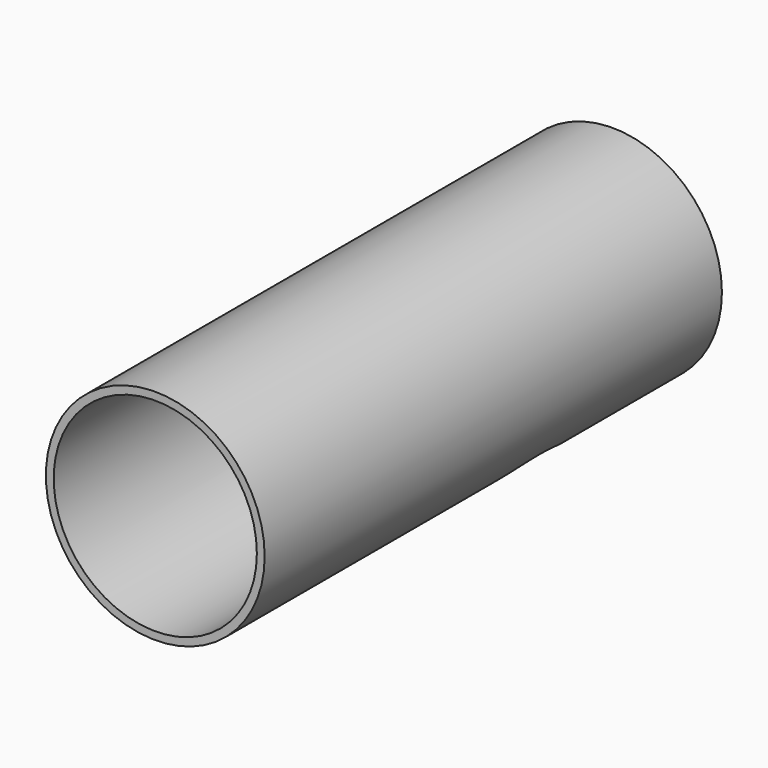
from build123d import *

# Parameters (mm, degrees)
F0_R     = 35.56
F1_DEPTH = 185.777068
F2_T     = -2.54
F3_R     = 26.32941
F4_DEPTH = 101.879455


with BuildPart() as f1:
    # F0 (on Front) → F1 (new body)
    with BuildSketch(Plane.XZ):
        Circle(F0_R)
    extrude(amount=F1_DEPTH)

    # F2
    f2_openings = [f1.faces().sort_by_distance(p)[0] for p in [
        (0, -185.777068, 0),
    ]]
    offset(amount=F2_T, openings=f2_openings)

    # F3 (on Top) → F4 (cut)
    with BuildSketch(Plane.XY):
        with Locations((0, -62.634744)):
            Circle(F3_R)
    extrude(amount=-F4_DEPTH, mode=Mode.SUBTRACT)


solid = f1.part
